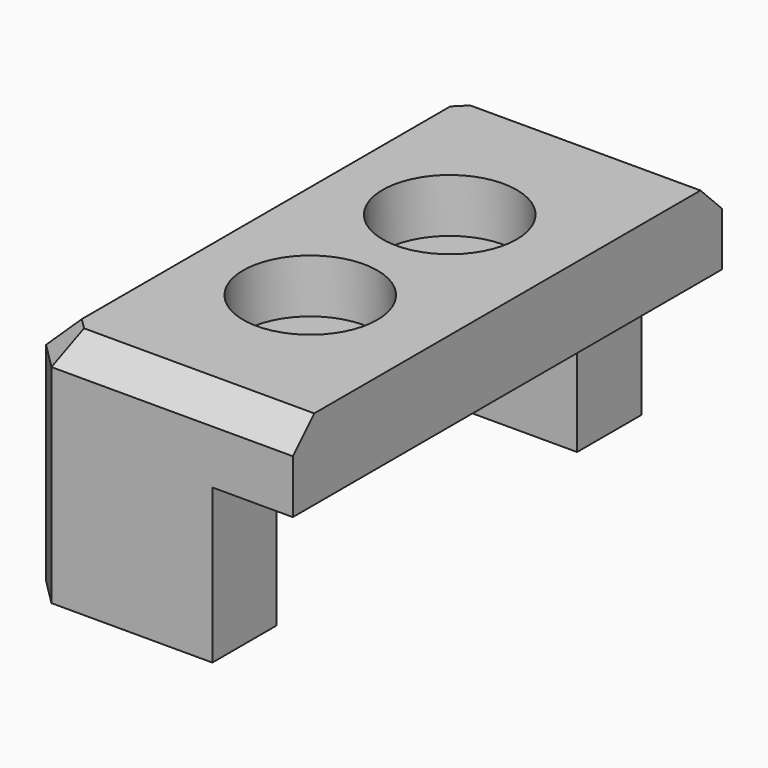
from build123d import *

# Parameters (mm, degrees)
BOX021_W          = 7
BOX021_H          = 3
BOX021_DEPTH      = 7
CHAMFER010_SIZE   = 1
BOX020_W          = 7
BOX020_H          = 3
BOX020_DEPTH      = 7
CHAMFER011_SIZE   = 1
CYLINDER026_R     = 2.5
CYLINDER026_DEPTH = 5
CYLINDER027_R     = 2.5
CYLINDER027_DEPTH = 5
CYLINDER029_R     = 0.85
CYLINDER029_DEPTH = 18
CYLINDER028_R     = 0.85
CYLINDER028_DEPTH = 18
BOX022_W          = 10
BOX022_H          = 20
BOX022_DEPTH      = 3
CHAMFER012_SIZE   = 1
CHAMFER013_SIZE   = 1


with BuildPart() as chamfer010:
    # Box021 → Box021 (new body)
    with BuildSketch(Plane(origin=(-8, 7, 5), x_dir=(1, 0, 0), z_dir=(0, 0, 1))):
        with Locations((3.5, 1.5)):
            Rectangle(BOX021_W, BOX021_H)
    extrude(amount=BOX021_DEPTH)

    # Chamfer010
    chamfer010_edges = [chamfer010.edges().sort_by_distance(p)[0] for p in [
        (-8, 10, 8.5),
    ]]
    chamfer(chamfer010_edges, length=CHAMFER010_SIZE)


with BuildPart() as chamfer011:
    # Box020 → Box020 (new body)
    with BuildSketch(Plane(origin=(-8, -10, 5), x_dir=(1, 0, 0), z_dir=(0, 0, 1))):
        with Locations((3.5, 1.5)):
            Rectangle(BOX020_W, BOX020_H)
    extrude(amount=BOX020_DEPTH)

    # Chamfer011
    chamfer011_edges = [chamfer011.edges().sort_by_distance(p)[0] for p in [
        (-8, -10, 8.5),
    ]]
    chamfer(chamfer011_edges, length=CHAMFER011_SIZE)


with BuildPart() as cylinder026:
    # Cylinder026 → Cylinder026 (new body)
    with BuildSketch(Plane(origin=(-2.75, 3.25, 0), x_dir=(1, 0, 0), z_dir=(0, 0, 1))):
        Circle(CYLINDER026_R)
    extrude(amount=CYLINDER026_DEPTH)


with BuildPart() as fusion001001001011002006:
    # Cylinder027 → Cylinder027 (new body)
    with BuildSketch(Plane(origin=(-2.75, -3.25, 0), x_dir=(1, 0, 0), z_dir=(0, 0, 1))):
        Circle(CYLINDER027_R)
    extrude(amount=CYLINDER027_DEPTH)

    # Fusion001001001011002006: union Cylinder026
    add(cylinder026.part)


with BuildPart() as fusion001001001011002006_1:
    # Fusion001001001011002006 placement: moved
    add(fusion001001001011002006.part.moved(Location((0, 0, 12))))


with BuildPart() as cylinder029:
    # Cylinder029 → Cylinder029 (new body)
    with BuildSketch(Plane(origin=(-2.75, 3.25, 0), x_dir=(1, 0, 0), z_dir=(0, 0, 1))):
        Circle(CYLINDER029_R)
    extrude(amount=CYLINDER029_DEPTH)


with BuildPart() as fusion001001001011002005:
    # Cylinder028 → Cylinder028 (new body)
    with BuildSketch(Plane(origin=(-2.75, -3.25, 0), x_dir=(1, 0, 0), z_dir=(0, 0, 1))):
        Circle(CYLINDER028_R)
    extrude(amount=CYLINDER028_DEPTH)

    # Fusion001001001011002005: union Cylinder029
    add(cylinder029.part)


with BuildPart() as fusion001001001011002004002:
    # Box022 → Box022 (new body)
    with BuildSketch(Plane(origin=(-8, -10, 10.5), x_dir=(1, 0, 0), z_dir=(0, 0, 1))):
        with Locations((5, 10)):
            Rectangle(BOX022_W, BOX022_H)
    extrude(amount=BOX022_DEPTH)

    # Chamfer012
    chamfer012_edges = [fusion001001001011002004002.edges().sort_by_distance(p)[0] for p in [
        (-8, -10, 12),
        (-8, 10, 12),
    ]]
    chamfer(chamfer012_edges, length=CHAMFER012_SIZE)

    # Chamfer013
    chamfer013_edges = [fusion001001001011002004002.edges().sort_by_distance(p)[0] for p in [
        (-8, 0, 13.5),
        (-7.5, -9.5, 13.5),
        (-7.5, 9.5, 13.5),
        (-2.5, -10, 13.5),
        (-2.5, 10, 13.5),
    ]]
    chamfer(chamfer013_edges, length=CHAMFER013_SIZE)

    # Cut002008023012009006003002006002006002004004003: cut Fusion001001001011002005
    add(fusion001001001011002005.part, mode=Mode.SUBTRACT)


with BuildPart() as fusion001001001011002004002_1:
    # Cut002008023012009006003002006002006002004004003 placement: moved
    add(fusion001001001011002004002.part.moved(Location((0, 0, 0.5))))

    # Cut002008023012009006003002006002006002004004004: cut Fusion001001001011002006
    add(fusion001001001011002006_1.part, mode=Mode.SUBTRACT)


with BuildPart() as fusion001001001011002004002_2:
    # Cut002008023012009006003002006002006002004004004 placement: moved
    add(fusion001001001011002004002_1.part.moved(Location((0, 0, -0.25))))

    # Fusion001001001011002004002: union Chamfer010, Chamfer011
    add(chamfer010.part)
    add(chamfer011.part)


solid = fusion001001001011002004002_2.part
